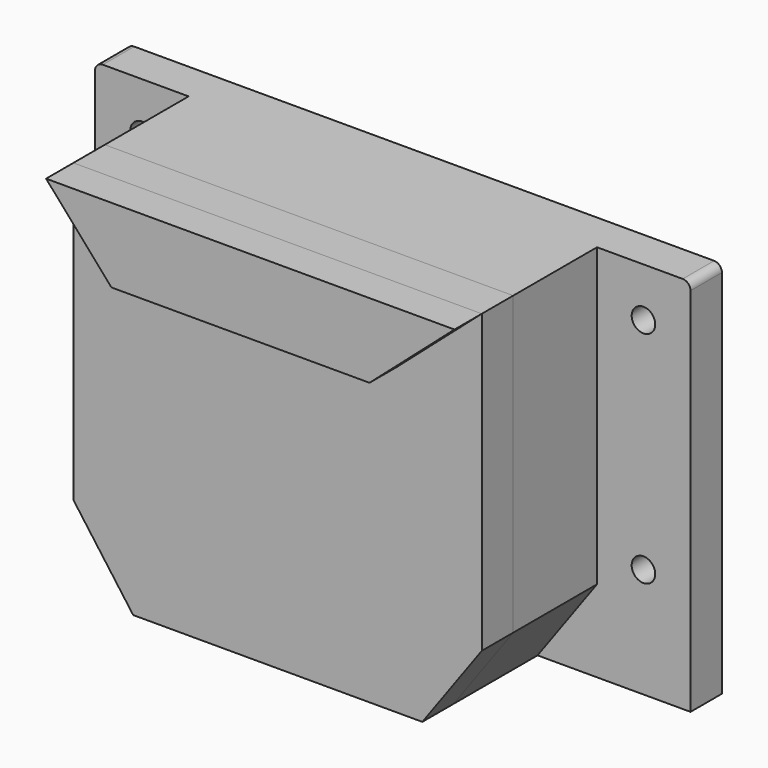
from build123d import *

# Parameters (mm, degrees)
F0_R     = 7.5
F1_DEPTH = 25
F2_W     = 260.1785361767
F2_H     = 189.0219330167
F3_DEPTH = 42.5
F4_DEPTH = 66.75
F6_DEPTH = 46.75
F8_DEPTH = 25


with BuildPart() as f1:
    # F0 (on Front) → F1 (new body)
    with BuildSketch(Plane.XZ):
        Polygon((129.6970205473, -123.6364181716), (129.6970205473, -77.5757833694), (-129.6970205473, -77.5757833694), (-129.6970205473, -123.6364181716), (-129.6970205473, -163.6364181716), (129.6970205473, -163.6364181716), align=None)
        with BuildLine():
            Line((-129.6970205473, -77.5757833694), (129.6970205473, -77.5757833694))
            Line((129.6970205473, -77.5757833694), (129.6970205473, 77.5757833694))
            Line((129.6970205473, 77.5757833694), (76.9282222731, 77.5757833694))
            ThreePointArc((76.9282222731, 77.5757833694), (0, 0.6475610963), (-76.9282222731, 77.5757833694))
            Line((-76.9282222731, 77.5757833694), (-129.6970205473, 77.5757833694))
            Line((-129.6970205473, 77.5757833694), (-129.6970205473, -77.5757833694))
        make_face()
        with BuildLine():
            Line((129.6970205473, 77.5757833694), (129.6970205473, -77.5757833694))
            Line((129.6970205473, -77.5757833694), (129.6970205473, -123.6364181716))
            Line((129.6970205473, -123.6364181716), (129.6970205473, -163.6364181716))
            Line((129.6970205473, -163.6364181716), (189.6970205473, -163.6364181716))
            Line((189.6970205473, -163.6364181716), (189.6970205473, -123.6364181716))
            Line((189.6970205473, -123.6364181716), (189.6970205473, 72.5757833694))
            ThreePointArc((189.6970205473, 72.5757833694), (188.2325544533, 76.1113172754), (184.6970205473, 77.5757833694))
            Line((184.6970205473, 77.5757833694), (129.6970205473, 77.5757833694))
        make_face()
        with Locations((159.6970205473, -93.6364181716)):
            Circle(F0_R, mode=Mode.SUBTRACT)
        with Locations((159.6970205473, 46.3635818284)):
            Circle(F0_R, mode=Mode.SUBTRACT)
        with BuildLine():
            Line((-129.6970205473, -123.6364181716), (-129.6970205473, -77.5757833694))
            Line((-129.6970205473, -77.5757833694), (-129.6970205473, 77.5757833694))
            Line((-129.6970205473, 77.5757833694), (-184.6970205473, 77.5757833694))
            ThreePointArc((-184.6970205473, 77.5757833694), (-188.2325544533, 76.1113172754), (-189.6970205473, 72.5757833694))
            Line((-189.6970205473, 72.5757833694), (-189.6970205473, -123.6364181716))
            Line((-189.6970205473, -123.6364181716), (-189.6970205473, -163.6364181716))
            Line((-189.6970205473, -163.6364181716), (-129.6970205473, -163.6364181716))
            Line((-129.6970205473, -163.6364181716), (-129.6970205473, -123.6364181716))
        make_face()
        with Locations((-159.6970205473, -93.6364181716)):
            Circle(F0_R, mode=Mode.SUBTRACT)
        with Locations((-159.6970205473, 46.3635818284)):
            Circle(F0_R, mode=Mode.SUBTRACT)
        with BuildLine():
            ThreePointArc((-76.9282222731, 77.5757833694), (0, 0.6475610963), (76.9282222731, 77.5757833694))
            Line((76.9282222731, 77.5757833694), (-76.9282222731, 77.5757833694))
        make_face()
    extrude(amount=F1_DEPTH)

    # F2 (on face) → F3 (join)
    with BuildSketch(Plane.XZ.offset(25)):
        with Locations((0.0338703394, -16.9351831389)):
            Rectangle(F2_W, F2_H)
    extrude(amount=F3_DEPTH)

    # F2 (on face) → F4 (join)
    with BuildSketch(Plane.XZ.offset(25)):
        with Locations((0.0338703394, -16.9351831389)):
            Rectangle(F2_W, F2_H)
        Polygon((130.1231384277, -111.4461496472), (-130.0553977489, -111.4461496472), (-91.9635742903, -163.6364181716), (92.2359377146, -163.6364181716), align=None)
    extrude(amount=F4_DEPTH)


with BuildPart() as f6:
    # F5 (on face) → F6 (new body)
    with BuildSketch(Plane.XZ.offset(91.75)):
        Polygon((130.1231384277, 77.5757833694), (-130.0553977489, 77.5757833694), (-88.4110927582, 30.0969909877), (75.9924301225, 30.0969909877), align=None)
    extrude(amount=F6_DEPTH)


with BuildPart() as f8:
    # F7 (on face) → F8 (new body)
    with BuildSketch(Plane.XZ.offset(91.75)):
        Polygon((-130.0553977489, -111.4461496472), (-91.9635742903, -163.6364181716), (92.2359377146, -163.6364181716), (130.1231384277, -111.4461496472), (130.1231384277, 77.5757833694), (-130.0553977489, 77.5757833694), align=None)
    extrude(amount=F8_DEPTH)


solid = Compound([f1.part, f6.part, f8.part])
